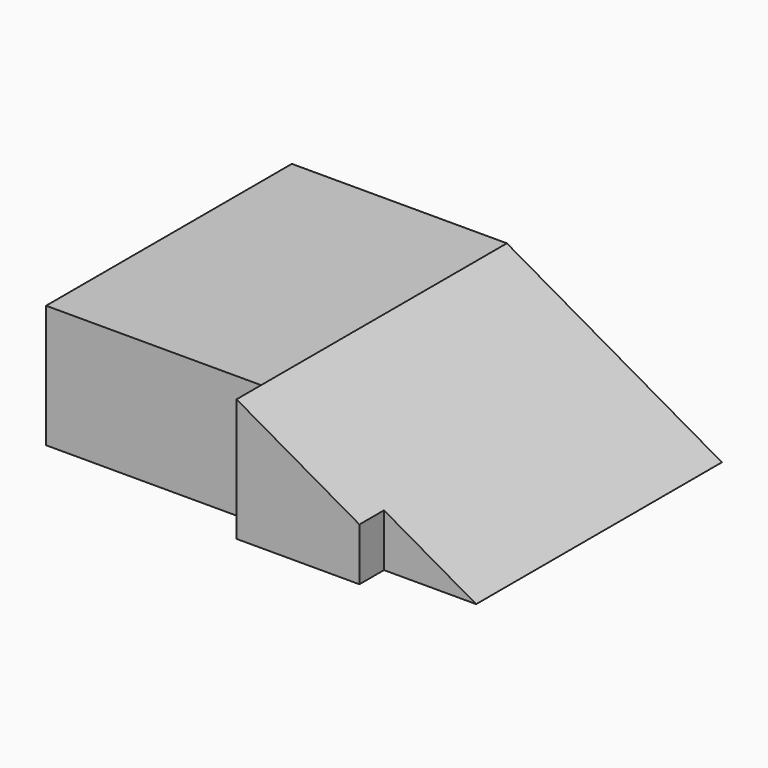
from build123d import *

# Parameters (mm, degrees)
F2_DEPTH = 50.8
F3_START = 76.201
F3_DEPTH = 139.702


with BuildPart() as f2:
    # F0 (on Top) → F2 (new body)
    with BuildSketch(Plane.XY):
        Polygon((50.8, -63.5), (88.9, -63.5), (88.9, 63.5), (-88.9, 63.5), (-88.9, -63.5), (0, -63.5), (0, -76.2), (50.8, -76.2), align=None)
    extrude(amount=F2_DEPTH)

    # F1 (on Front) → F3 (intersect)
    with BuildSketch(Plane.XZ.offset(F3_START)):
        Polygon((-88.9, 50.8), (-88.9, 0), (50.8, 0), (50.8, 21.7714285714), (0, 50.8), align=None)
        Polygon((50.8, 21.7714285714), (50.8, 0), (88.9, 0), align=None)
    extrude(amount=-F3_DEPTH, mode=Mode.INTERSECT)


solid = f2.part
